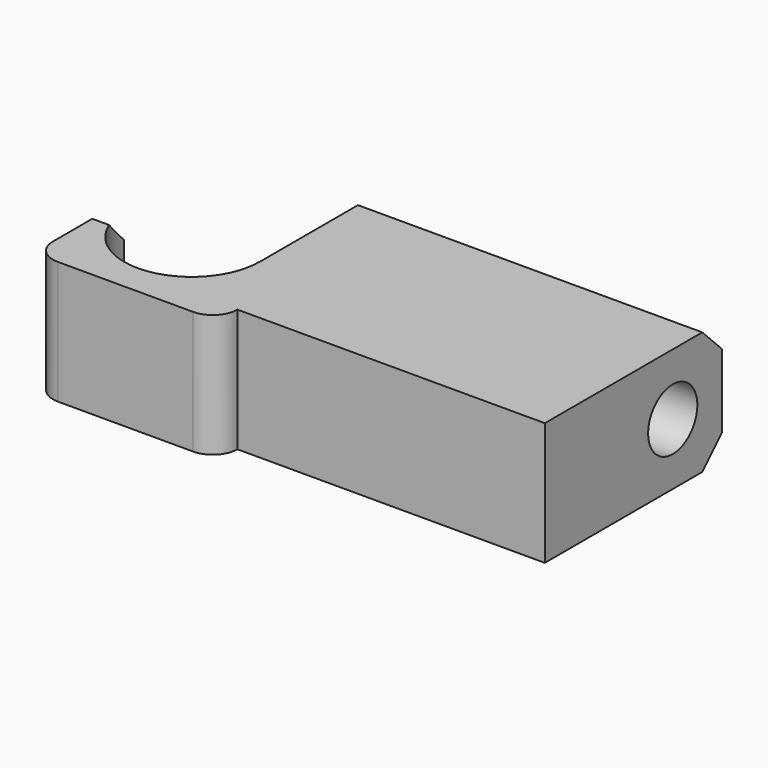
from build123d import *

# Parameters (mm, degrees)
F1_DEPTH = 10
F2_SIZE  = 2
F3_R     = 2.5
F4_DEPTH = 25
F5_DEPTH = 25


with BuildPart() as f1:
    # F0 (on Top) → F1 (new body)
    with BuildSketch(Plane.XY):
        with BuildLine():
            ThreePointArc((-2, 0), (-0.5857864376, 0.5857864376), (0, 2))
            Line((0, 2), (0, 20))
            Line((0, 20), (-3, 20))
            Line((-3, 20), (-3, 8))
            Line((-3, 8), (-3.0090067523, 8))
            ThreePointArc((-3.0090067523, 8), (-8.5090067523, 2.5), (-14.0090067523, 8))
            Line((-14.0090067523, 8), (-15, 8))
            Line((-15, 8), (-15, 2))
            ThreePointArc((-15, 2), (-14.4142135624, 0.5857864376), (-13, 0))
            Line((-13, 0), (-2, 0))
        make_face()
    extrude(amount=F1_DEPTH)

    # F2
    f2_edges = [f1.edges().sort_by_distance(p)[0] for p in [
        (-14.504503, 8, 10),
        (-14.504503, 8, 0),
        (-1.5, 20, 10),
        (-1.5, 20, 0),
    ]]
    chamfer(f2_edges, length=F2_SIZE)

    # F3 (on face) → F4 (cut)
    with BuildSketch(Plane(origin=(-3, 0, 0), x_dir=(0, -1, 0), z_dir=(-1, 0, 0))):
        with Locations((-15, 5)):
            Circle(F3_R)
    extrude(amount=-F4_DEPTH, mode=Mode.SUBTRACT)

    # F5 (add): a face of the model
    f5_faces = [f1.faces().sort_by_distance(p)[0] for p in [
        (0, 10.2845386319, 5),
    ]]
    extrude(f5_faces, amount=F5_DEPTH)


solid = f1.part
